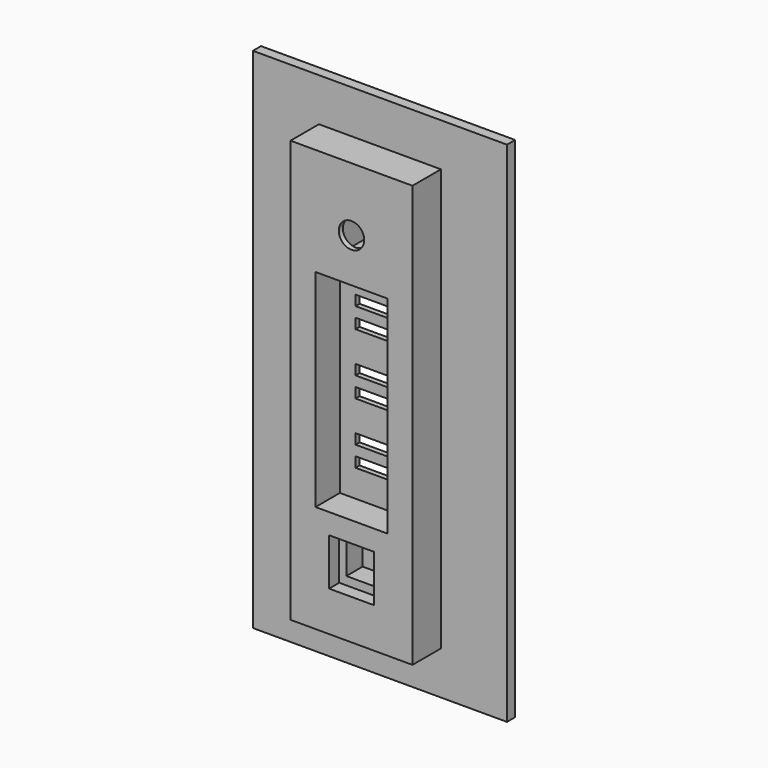
from build123d import *

# Parameters (mm, degrees)
F0_W      = 50
F0_H      = 100
F0_R      = 1.5
F0_W_2    = 20
F0_H_2    = 70
F1_DEPTH  = 2
F3_W      = 24
F3_H      = 83
F4_DEPTH  = 7
F5_R      = 2.5
F6_DEPTH  = 5
F7_W      = 6
F7_H      = 9
F8_DEPTH  = 6
F9_W      = 8
F9_H      = 2
F10_DEPTH = 10
F11_W     = 14.149758
F11_H     = 40.712248
F12_DEPTH = 6
F13_W     = 6
F13_H     = 6
F14_DEPTH = 6.5
F15_W     = 8.812208
F15_H     = 9.249864
F16_DEPTH = 2.5


with BuildPart() as f1:
    # F0 (on Front) → F1 (new body)
    with BuildSketch(Plane.XZ):
        Rectangle(F0_W, F0_H)
        with Locations((0, -37.5)):
            Circle(F0_R, mode=Mode.SUBTRACT)
        Rectangle(F0_W_2, F0_H_2, mode=Mode.SUBTRACT)
        with Locations((0, 37.5)):
            Circle(F0_R, mode=Mode.SUBTRACT)
    extrude(amount=F1_DEPTH)


with BuildPart() as f4:
    # F3 (on offset) → F4 (new body)
    with BuildSketch(Plane.XZ.offset(2)):
        Rectangle(F3_W, F3_H)
    extrude(amount=F4_DEPTH)

    # F5 (on face) → F6 (cut)
    with BuildSketch(Plane.XZ.offset(9)):
        with Locations((0, 29)):
            Circle(F5_R)
    extrude(amount=-F6_DEPTH, mode=Mode.SUBTRACT)

    # F7 (on face) → F8 (cut)
    with BuildSketch(Plane(origin=(0, -2, 0), x_dir=(-1, 0, 0), z_dir=(0, 1, 0))):
        with Locations((0, 29)):
            Rectangle(F7_W, F7_H)
    extrude(amount=-F8_DEPTH, mode=Mode.SUBTRACT)

    # F9 (on face) → F10 (cut)
    with BuildSketch(Plane.XZ.offset(9)):
        with Locations((0, 14)):
            Rectangle(F9_W, F9_H)
        with Locations((0, 10)):
            Rectangle(F9_W, F9_H)
        with Locations((0, 2)):
            Rectangle(F9_W, F9_H)
        with Locations((0, -2)):
            Rectangle(F9_W, F9_H)
        with Locations((0, -10)):
            Rectangle(F9_W, F9_H)
        with Locations((0, -14)):
            Rectangle(F9_W, F9_H)
    extrude(amount=-F10_DEPTH, mode=Mode.SUBTRACT)

    # F11 (on face) → F12 (cut)
    with BuildSketch(Plane.XZ.offset(9)):
        Rectangle(F11_W, F11_H)
    extrude(amount=-F12_DEPTH, mode=Mode.SUBTRACT)

    # F13 (on face) → F14 (cut)
    with BuildSketch(Plane.XZ.offset(9)):
        with Locations((0, -29)):
            Rectangle(F13_W, F13_H)
    extrude(amount=-F14_DEPTH, mode=Mode.SUBTRACT)

    # F15 (on face) → F16 (cut)
    with BuildSketch(Plane.XZ.offset(9)):
        with Locations((0, -29)):
            Rectangle(F15_W, F15_H)
    extrude(amount=-F16_DEPTH, mode=Mode.SUBTRACT)


solid = Compound([f1.part, f4.part])
